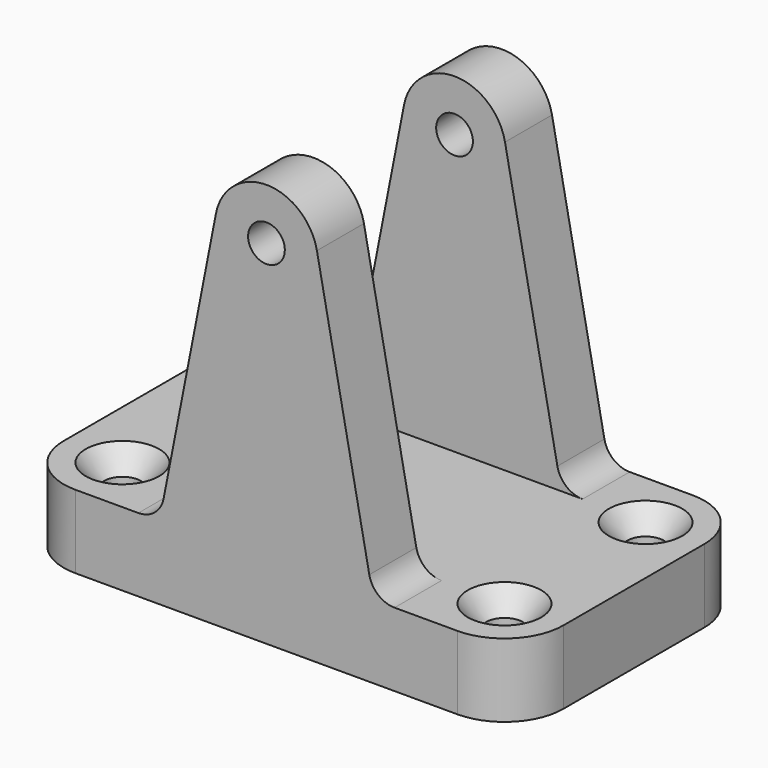
from build123d import *

# Parameters (mm, degrees)
F1_DEPTH = 10
F2_R     = 2.5
F3_DEPTH = 25
F4_R     = 2.5
F5_DEPTH = 8
F6_START = -32
F6_DEPTH = 8


with BuildPart() as f1:
    # F0 (on Top) → F1 (new body)
    with BuildSketch(Plane.XY):
        with BuildLine():
            ThreePointArc((34, 12), (31.6568542495, 17.6568542495), (26, 20))
            Line((26, 20), (-26, 20))
            ThreePointArc((-26, 20), (-31.6568542495, 17.6568542495), (-34, 12))
            Line((-34, 12), (-34, -12))
            ThreePointArc((-34, -12), (-31.6568542495, -17.6568542495), (-26, -20))
            Line((-26, -20), (26, -20))
            ThreePointArc((26, -20), (31.6568542495, -17.6568542495), (34, -12))
            Line((34, -12), (34, 12))
        make_face()
    extrude(amount=-F1_DEPTH)

    # F2 (on face) → F3 (cut)
    with BuildSketch(Plane.XY):
        with Locations((-26, 12)):
            Circle(F2_R)
        with Locations((-26, -12)):
            Circle(F2_R)
        with Locations((26, -12)):
            Circle(F2_R)
        with Locations((26, 12)):
            Circle(F2_R)
    extrude(amount=-F3_DEPTH, mode=Mode.SUBTRACT)

    # F4 (on face) → F5 (join)
    with BuildSketch(Plane.XZ.offset(20)):
        with BuildLine():
            ThreePointArc((6.870243072, 39.3415513897), (6.9674852531, 38.6739059637), (7, 38))
            ThreePointArc((7, 38), (-0.6739059637, 31.0325147469), (-6.870243072, 39.3415513897))
            Line((-6.870243072, 39.3415513897), (-14, 2.8292243052))
            ThreePointArc((-14, 2.8292243052), (-15.2100052393, 0.7983602265), (-17.435121536, 0))
            Line((-17.435121536, 0), (0, 0))
            Line((0, 0), (17.435121536, 0))
            ThreePointArc((17.435121536, 0), (15.2100052393, 0.7983602265), (14, 2.8292243052))
            Line((14, 2.8292243052), (6.870243072, 39.3415513897))
        make_face()
        with BuildLine():
            ThreePointArc((-6.870243072, 39.3415513897), (-0.6739059637, 31.0325147469), (7, 38))
            ThreePointArc((7, 38), (6.9674852531, 38.6739059637), (6.870243072, 39.3415513897))
            ThreePointArc((6.870243072, 39.3415513897), (0, 45), (-6.870243072, 39.3415513897))
        make_face()
        with Locations((0, 38)):
            Circle(F4_R, mode=Mode.SUBTRACT)
    extrude(amount=-F5_DEPTH)

    # F4 (on face) → F6 (join)
    with BuildSketch(Plane.XZ.offset(20).offset(F6_START)):
        with BuildLine():
            ThreePointArc((-6.870243072, 39.3415513897), (-0.6739059637, 31.0325147469), (7, 38))
            ThreePointArc((7, 38), (6.9674852531, 38.6739059637), (6.870243072, 39.3415513897))
            ThreePointArc((6.870243072, 39.3415513897), (0, 45), (-6.870243072, 39.3415513897))
        make_face()
        with Locations((0, 38)):
            Circle(F4_R, mode=Mode.SUBTRACT)
        with BuildLine():
            ThreePointArc((6.870243072, 39.3415513897), (6.9674852531, 38.6739059637), (7, 38))
            ThreePointArc((7, 38), (-0.6739059637, 31.0325147469), (-6.870243072, 39.3415513897))
            Line((-6.870243072, 39.3415513897), (-14, 2.8292243052))
            ThreePointArc((-14, 2.8292243052), (-15.2100052393, 0.7983602265), (-17.435121536, 0))
            Line((-17.435121536, 0), (0, 0))
            Line((0, 0), (17.435121536, 0))
            ThreePointArc((17.435121536, 0), (15.2100052393, 0.7983602265), (14, 2.8292243052))
            Line((14, 2.8292243052), (6.870243072, 39.3415513897))
        make_face()
    extrude(amount=-F6_DEPTH)

    # F8 (on offset) → F9 (revolve, cut)
    with BuildSketch(Plane.XZ.offset(12)):
        Polygon((-21, 0), (-26, 0), (-26, -3), (-23.5, -3), align=None)
    revolve(axis=Axis((-26, -12, -1.5), (0, 0, -1)), mode=Mode.SUBTRACT)

    # F10 (on offset) → F11 (revolve, cut)
    with BuildSketch(Plane.XZ.offset(12)):
        Polygon((31, 0), (26, 0), (26, -3), (28.5, -3), align=None)
    revolve(axis=Axis((26, -12, -1.5), (0, 0, -1)), mode=Mode.SUBTRACT)

    # F13 (on offset) → F14 (revolve, cut)
    with BuildSketch(Plane(origin=(0, 12, 0), x_dir=(-1, 0, 0), z_dir=(0, 1, 0))):
        Polygon((-26, -3), (-26, 0), (-31, 0), (-28.5, -3), align=None)
    revolve(axis=Axis((26, 12, -1.5), (0, 0, -1)), mode=Mode.SUBTRACT)

    # F15 (on offset) → F16 (revolve, cut)
    with BuildSketch(Plane(origin=(0, 12, 0), x_dir=(-1, 0, 0), z_dir=(0, 1, 0))):
        Polygon((31, 0), (26, 0), (26, -3), (28.5, -3), align=None)
    revolve(axis=Axis((-26, 12, -1.5), (0, 0, -1)), mode=Mode.SUBTRACT)


solid = f1.part
